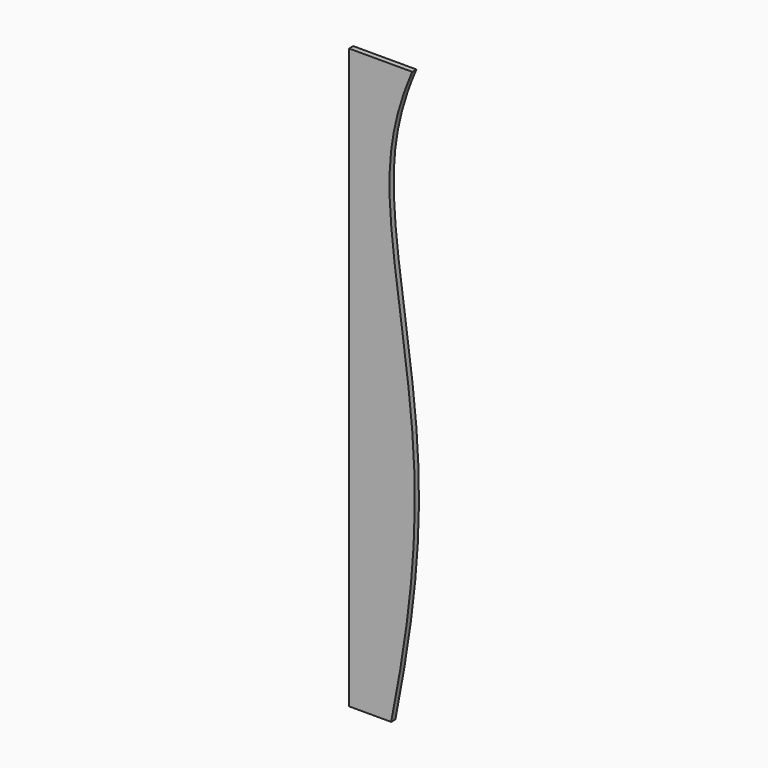
from build123d import *

# Parameters (mm, degrees)
F1_DEPTH = 1


with BuildPart() as f1:
    # F0 (on Front) → F1 (new body)
    with BuildSketch(Plane.XZ):
        with BuildLine():
            Line((0, 110), (0, 0))
            Line((0, 0), (8, 0))
            add(Edge.make_bspline(
                [(8, 0), (12.3767052589, 22.0566682106), (13.7785573957, 47.2173150366), (6.8523428061, 83.5531686105), (7.5638320173, 99.6865350834), (12, 110)],
                knots=[0, 0, 0, 0, 0.3918893078, 0.7109154887, 1, 1, 1, 1], degree=3))
            Line((12, 110), (0, 110))
        make_face()
    extrude(amount=F1_DEPTH)


solid = f1.part
